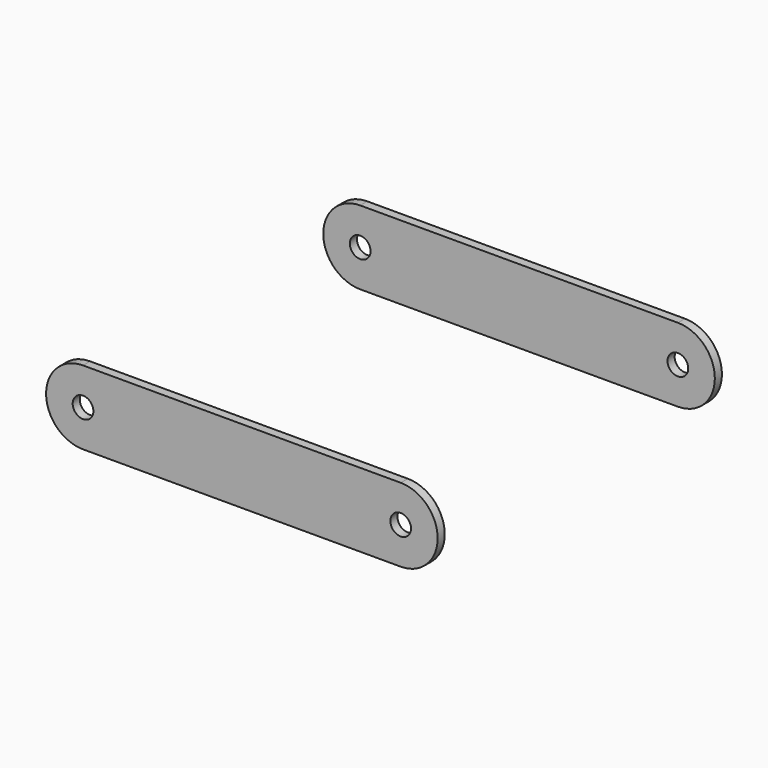
from build123d import *

# Parameters (mm, degrees)
SKETCH048_R  = 7
PAD010_DEPTH = 6


with BuildPart() as body007:
    # Sketch048 → Pad010 (new body)
    with BuildSketch(Plane.XZ):
        with BuildLine():
            Line((0, 25), (215, 25))
            ThreePointArc((215, -25), (240, 0), (215, 25))
            Line((215, -25), (0, -25))
            ThreePointArc((0, 25), (-25, 0), (0, -25))
        make_face()
        Circle(SKETCH048_R, mode=Mode.SUBTRACT)
        with Locations((215, 0)):
            Circle(SKETCH048_R, mode=Mode.SUBTRACT)
    extrude(amount=PAD010_DEPTH)


with BuildPart() as body007_1:
    # Body007 placement: moved
    add(body007.part.moved(Location((0, -114.25, 0))))


with BuildPart() as linkplate:
    # Mirror005: instance of Body007
    add(body007_1.part.mirror(Plane(origin=(-500, 0, 0), x_dir=(-1, 0, 0), z_dir=(0, -1, 0))))

    # Fusion015: union Body007
    add(body007_1.part)


solid = linkplate.part
